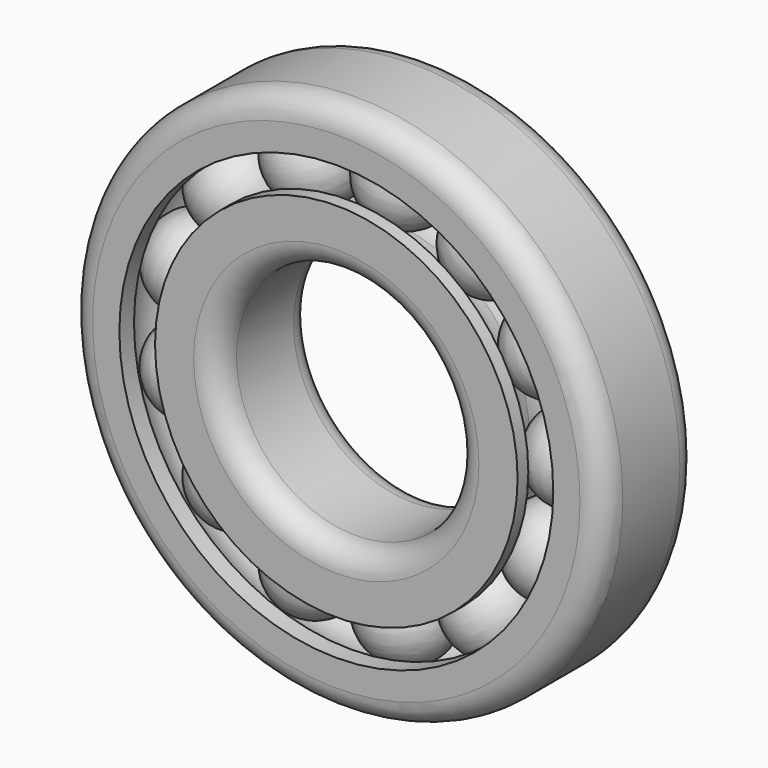
from build123d import *

# Parameters (mm, degrees)
F0_R     = 15.25
F0_R_2   = 10
F1_DEPTH = 10
F0_R_3   = 22.5
F0_R_4   = 18.25
F2_R     = 4
F8_COUNT = 13
F8_ANGLE = 332.28
F9_R     = 2
F9_2_R   = 2


with BuildPart() as f1:
    # F0 (on Front) → F1 (new body)
    with BuildSketch(Plane.XZ):
        Circle(F0_R)
        Circle(F0_R_2, mode=Mode.SUBTRACT)
    extrude(amount=F1_DEPTH)


with BuildPart() as f1b:
    # F0 (on Front) → F1, piece 2 (new body)
    with BuildSketch(Plane.XZ):
        Circle(F0_R_3)
        Circle(F0_R_4, mode=Mode.SUBTRACT)
    extrude(amount=F1_DEPTH)


with BuildPart() as f3_tool:
    # F2 (on Top) → F3 (revolve)
    with BuildSketch(Plane.XY):
        with Locations((-16.25, -5)):
            Circle(F2_R)
    revolve(axis=Axis((0, -3.6758128554, 0), (0, 1, 0)))


with BuildPart() as f1_1:
    add(f1.part)

    # F3: cut by f3_tool
    add(f3_tool.part, mode=Mode.SUBTRACT)

    # F9#2
    f9_2_edges = [f1_1.edges().sort_by_distance(p)[0] for p in [
        (-10, -10, 0),
        (-10, 0, 0),
    ]]
    fillet(f9_2_edges, radius=F9_2_R)


with BuildPart() as f1b_1:
    add(f1b.part)

    # F3: cut by f3_tool
    add(f3_tool.part, mode=Mode.SUBTRACT)

    # F9
    f9_edges = [f1b_1.edges().sort_by_distance(p)[0] for p in [
        (-22.5, -10, 0),
        (-22.5, 0, 0),
    ]]
    fillet(f9_edges, radius=F9_R)


with BuildPart() as f5:
    # F4 (on Front) → F5 (revolve)
    with BuildSketch(Plane.XZ):
        with BuildLine():
            Line((12.5000005907, 0.0021047555), (19.9999993826, 0.002151872))
            ThreePointArc((19.9999993826, 0.002151872), (16.2499764417, 3.75), (12.5000005907, 0.0021047555))
        make_face()
    revolve(axis=Axis((16.2499999866, 0, 0.0021283137), (-1, 0, -6.2822e-06)))


with BuildPart() as f5_1:
    # F6: moved
    add(f5.part.moved(Location((0, -5, 0))))


with BuildPart() as f8_1:
    # F8: instance of F5
    add(f5_1.part.rotate(Axis((0, -1.576660201, 0), (0, 1, 0)), 1 * F8_ANGLE / (F8_COUNT - 1)))


with BuildPart() as f8_2:
    # F8: instance of F5
    add(f5_1.part.rotate(Axis((0, -1.576660201, 0), (0, 1, 0)), 2 * F8_ANGLE / (F8_COUNT - 1)))


with BuildPart() as f8_3:
    # F8: instance of F5
    add(f5_1.part.rotate(Axis((0, -1.576660201, 0), (0, 1, 0)), 3 * F8_ANGLE / (F8_COUNT - 1)))


with BuildPart() as f8_4:
    # F8: instance of F5
    add(f5_1.part.rotate(Axis((0, -1.576660201, 0), (0, 1, 0)), 4 * F8_ANGLE / (F8_COUNT - 1)))


with BuildPart() as f8_5:
    # F8: instance of F5
    add(f5_1.part.rotate(Axis((0, -1.576660201, 0), (0, 1, 0)), 5 * F8_ANGLE / (F8_COUNT - 1)))


with BuildPart() as f8_6:
    # F8: instance of F5
    add(f5_1.part.rotate(Axis((0, -1.576660201, 0), (0, 1, 0)), 6 * F8_ANGLE / (F8_COUNT - 1)))


with BuildPart() as f8_7:
    # F8: instance of F5
    add(f5_1.part.rotate(Axis((0, -1.576660201, 0), (0, 1, 0)), 7 * F8_ANGLE / (F8_COUNT - 1)))


with BuildPart() as f8_8:
    # F8: instance of F5
    add(f5_1.part.rotate(Axis((0, -1.576660201, 0), (0, 1, 0)), 8 * F8_ANGLE / (F8_COUNT - 1)))


with BuildPart() as f8_9:
    # F8: instance of F5
    add(f5_1.part.rotate(Axis((0, -1.576660201, 0), (0, 1, 0)), 9 * F8_ANGLE / (F8_COUNT - 1)))


with BuildPart() as f8_10:
    # F8: instance of F5
    add(f5_1.part.rotate(Axis((0, -1.576660201, 0), (0, 1, 0)), 10 * F8_ANGLE / (F8_COUNT - 1)))


with BuildPart() as f8_11:
    # F8: instance of F5
    add(f5_1.part.rotate(Axis((0, -1.576660201, 0), (0, 1, 0)), 11 * F8_ANGLE / (F8_COUNT - 1)))


with BuildPart() as f8_12:
    # F8: instance of F5
    add(f5_1.part.rotate(Axis((0, -1.576660201, 0), (0, 1, 0)), 12 * F8_ANGLE / (F8_COUNT - 1)))


solid = Compound([f1_1.part, f1b_1.part, f5_1.part, f8_1.part, f8_2.part, f8_3.part, f8_4.part, f8_5.part, f8_6.part, f8_7.part, f8_8.part, f8_9.part, f8_10.part, f8_11.part, f8_12.part])
